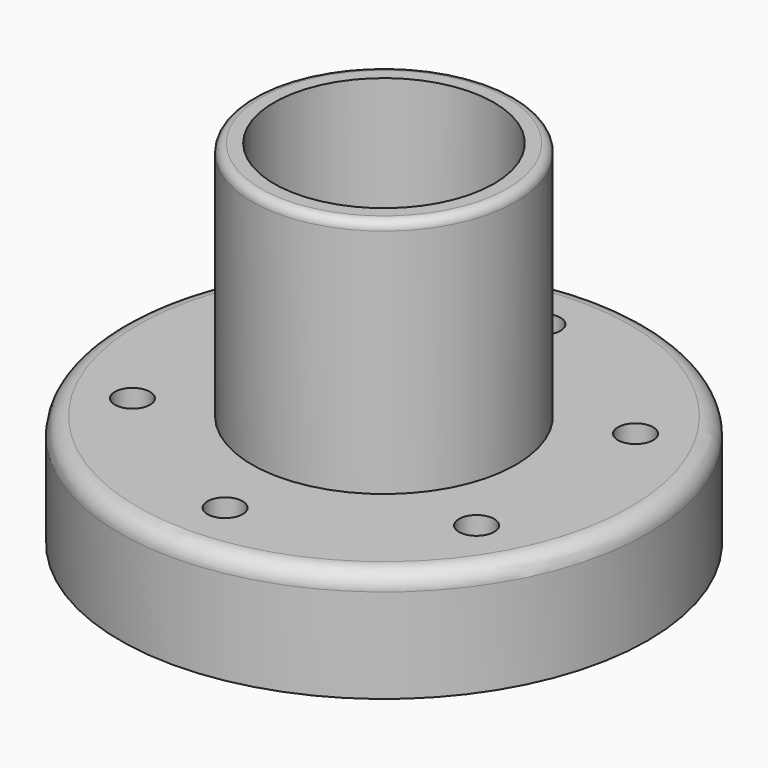
from build123d import *

# Parameters (mm, degrees)
F0_R     = 15
F0_R_2   = 12.5
F0_R_3   = 30
F0_R_4   = 2
F1_DEPTH = 12.7
F2_DEPTH = 40
F3_R     = 1
F4_R     = 2


with BuildPart() as f1:
    # F0 (on Top) → F1 (new body)
    with BuildSketch(Plane.XY):
        Circle(F0_R)
        Circle(F0_R_2, mode=Mode.SUBTRACT)
        Circle(F0_R_3)
        with Locations((-19.55572, -11.2905)):
            Circle(F0_R_4, mode=Mode.SUBTRACT)
        with Locations((0, -22.581)):
            Circle(F0_R_4, mode=Mode.SUBTRACT)
        with Locations((19.55572, -11.2905)):
            Circle(F0_R_4, mode=Mode.SUBTRACT)
        with Locations((-19.55572, 11.2905)):
            Circle(F0_R_4, mode=Mode.SUBTRACT)
        Circle(F0_R, mode=Mode.SUBTRACT)
        with Locations((19.55572, 11.2905)):
            Circle(F0_R_4, mode=Mode.SUBTRACT)
        with Locations((0, 22.581)):
            Circle(F0_R_4, mode=Mode.SUBTRACT)
    extrude(amount=F1_DEPTH)

    # F0 (on Top) → F2 (join)
    with BuildSketch(Plane.XY):
        Circle(F0_R)
        Circle(F0_R_2, mode=Mode.SUBTRACT)
    extrude(amount=F2_DEPTH)

    # F3
    f3_edges = [f1.edges().sort_by_distance(p)[0] for p in [
        (-15, 0, 40),
    ]]
    fillet(f3_edges, radius=F3_R)

    # F4
    f4_edges = [f1.edges().sort_by_distance(p)[0] for p in [
        (-30, 0, 12.7),
    ]]
    fillet(f4_edges, radius=F4_R)


solid = f1.part
